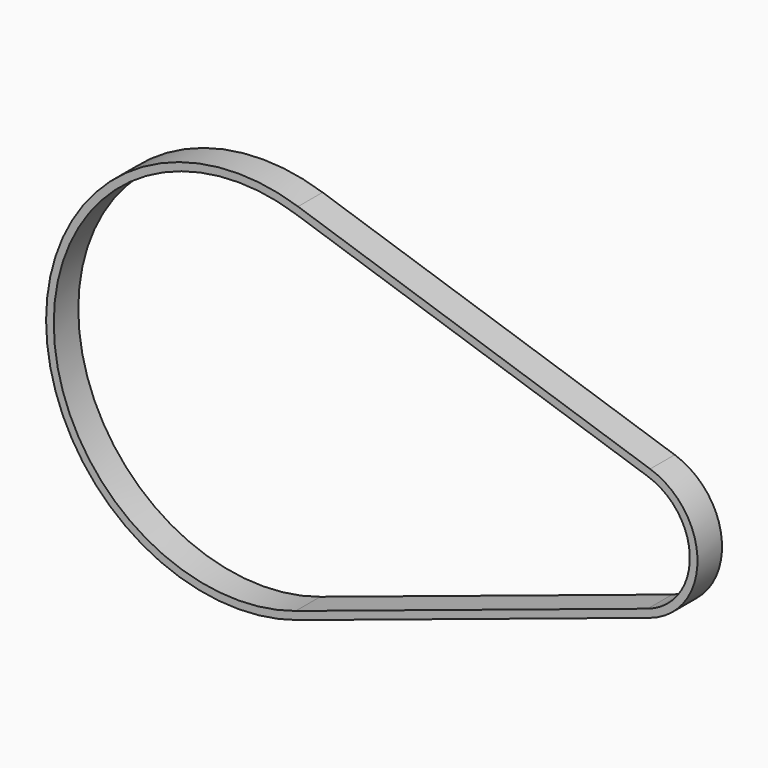
from build123d import *

# Parameters (mm, degrees)
F2_DEPTH = 12.7


with BuildPart() as f2:
    # F1 (on face) → F2 (new body)
    with BuildSketch(Plane.XZ):
        with BuildLine():
            Line((170.693952, 27.128556), (24.933873, 75.357101))
            ThreePointArc((24.933873, 75.357101), (-79.375, 0), (24.933873, -75.357101))
            Line((24.933873, -75.357101), (170.693952, -27.128556))
            ThreePointArc((170.693952, -27.128556), (190.292758, 0), (170.693952, 27.128556))
        make_face()
        with BuildLine():
            ThreePointArc((23.936518, -72.342817), (-76.2, 0), (23.936518, 72.342817))
            Line((23.936518, 72.342817), (169.696597, 24.114272))
            ThreePointArc((169.696597, 24.114272), (187.117758, 0), (169.696597, -24.114272))
            Line((169.696597, -24.114272), (23.936518, -72.342817))
        make_face(mode=Mode.SUBTRACT)
    extrude(amount=F2_DEPTH)


solid = f2.part
